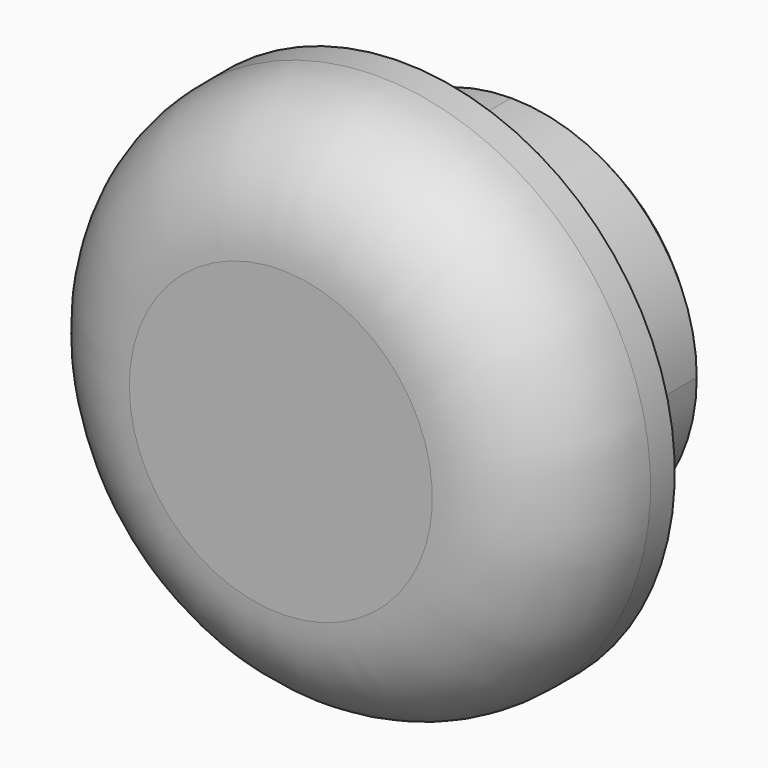
from build123d import *

# Parameters (mm, degrees)
F1_DEPTH  = 6.35
F2_SIZE   = 0.635
F1_FACE_R = 7.77875
F3_DEPTH  = 6.35
F4_R      = 5.08


with BuildPart() as f1:
    # F0 (on Front) → F1 (new body)
    with BuildSketch(Plane.XZ):
        with BuildLine():
            Line((25.4758205265, 31.9442898035), (25.4758205265, 39.7230398035))
            ThreePointArc((25.4758205265, 39.7230398035), (19.9754136523, 37.4446966777), (17.6970705265, 31.9442898035))
            Line((17.6970705265, 31.9442898035), (25.4758205265, 31.9442898035))
        make_face()
        with BuildLine():
            Line((25.4758205265, 31.9442898035), (33.2545705265, 31.9442898035))
            ThreePointArc((33.2545705265, 31.9442898035), (30.9762274006, 37.4446966777), (25.4758205265, 39.7230398035))
            Line((25.4758205265, 39.7230398035), (25.4758205265, 31.9442898035))
        make_face()
        with BuildLine():
            ThreePointArc((25.4758205265, 24.1655398035), (30.9762274006, 26.4438829294), (33.2545705265, 31.9442898035))
            Line((33.2545705265, 31.9442898035), (25.4758205265, 31.9442898035))
            Line((25.4758205265, 31.9442898035), (25.4758205265, 24.1655398035))
        make_face()
        with BuildLine():
            ThreePointArc((17.6970705265, 31.9442898035), (19.9754136523, 26.4438829294), (25.4758205265, 24.1655398035))
            Line((25.4758205265, 24.1655398035), (25.4758205265, 31.9442898035))
            Line((25.4758205265, 31.9442898035), (17.6970705265, 31.9442898035))
        make_face()
    extrude(amount=-F1_DEPTH)

    # F2
    f2_edges = [f1.edges().sort_by_distance(p)[0] for p in [
        (33.254571, 6.35, 31.94429),
    ]]
    chamfer(f2_edges, length=F2_SIZE)

    # F0 (on Front) + F1_face (on face) → F3 (join)
    with BuildSketch(Plane.XZ):
        with BuildLine():
            ThreePointArc((25.4758205265, 39.7230398035), (30.9762274006, 37.4446966777), (33.2545705265, 31.9442898035))
            Line((33.2545705265, 31.9442898035), (36.9058205265, 31.9442898035))
            ThreePointArc((36.9058205265, 31.9442898035), (25.4758205265, 43.3742898035), (14.0458205265, 31.9442898035))
            Line((14.0458205265, 31.9442898035), (17.6970705265, 31.9442898035))
            ThreePointArc((17.6970705265, 31.9442898035), (19.9754136523, 37.4446966777), (25.4758205265, 39.7230398035))
        make_face()
        with BuildLine():
            Line((36.9058205265, 31.9442898035), (33.2545705265, 31.9442898035))
            ThreePointArc((33.2545705265, 31.9442898035), (30.9762274006, 26.4438829294), (25.4758205265, 24.1655398035))
            ThreePointArc((25.4758205265, 24.1655398035), (19.9754136523, 26.4438829294), (17.6970705265, 31.9442898035))
            Line((17.6970705265, 31.9442898035), (14.0458205265, 31.9442898035))
            ThreePointArc((14.0458205265, 31.9442898035), (25.4758205265, 20.5142898035), (36.9058205265, 31.9442898035))
        make_face()
    with BuildSketch(Plane(origin=(25.4758205265, 0, 31.9442898035), x_dir=(1, 0, 0), z_dir=(0, -1, 0))):
        Circle(F1_FACE_R)
    extrude(amount=F3_DEPTH)

    # F4
    f4_edges = [f1.edges().sort_by_distance(p)[0] for p in [
        (36.905821, -6.35, 31.94429),
    ]]
    fillet(f4_edges, radius=F4_R)


solid = f1.part
